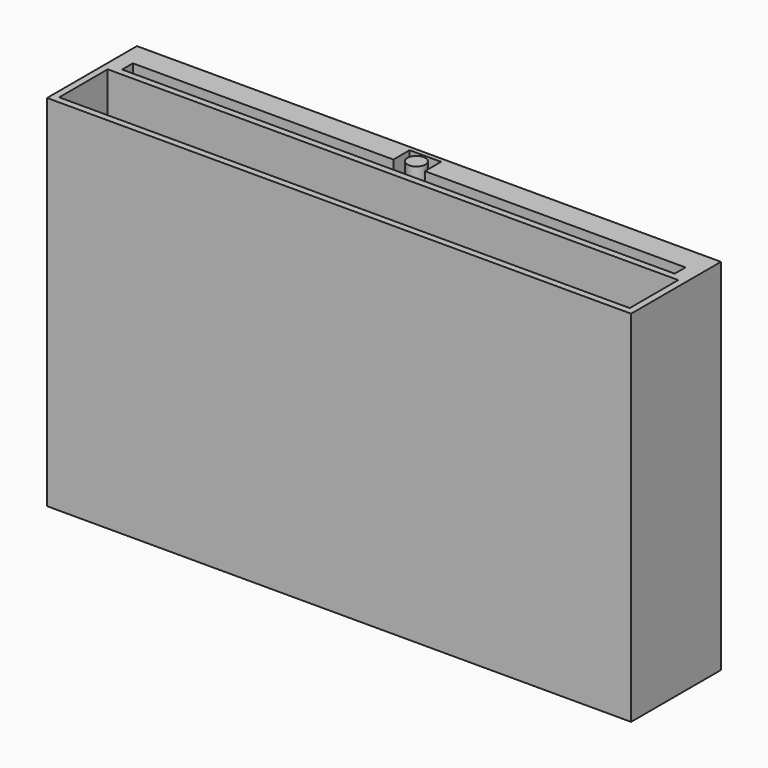
from build123d import *

# Parameters (mm, degrees)
F0_W     = 1300
F0_H     = 800
F1_DEPTH = 250
F2_R     = 20
F2_W     = 1270
F2_H     = 135
F3_DEPTH = 790


with BuildPart() as f1:
    # F0 (on Front) → F1 (new body)
    with BuildSketch(Plane.XZ):
        with Locations((650, -400)):
            Rectangle(F0_W, F0_H)
    extrude(amount=F1_DEPTH)

    # F2 (on face) → F3 (cut)
    with BuildSketch(Plane.XY):
        with BuildLine():
            ThreePointArc((675, -35), (667.67767, -17.32233), (650, -10))
            ThreePointArc((650, -10), (632.32233, -17.32233), (625, -35))
            ThreePointArc((625, -35), (650, -60), (675, -35))
        make_face()
        with Locations((650, -35)):
            Circle(F2_R, mode=Mode.SUBTRACT)
        with BuildLine():
            Line((625, -10), (615, -10))
            Line((615, -10), (615, -55))
            Line((615, -55), (35, -55))
            Line((35, -55), (35, -85))
            Line((35, -85), (1265, -85))
            Line((1265, -85), (1265, -55))
            Line((1265, -55), (685, -55))
            Line((685, -55), (685, -10))
            Line((685, -10), (675, -10))
            Line((675, -10), (675, -35))
            ThreePointArc((675, -35), (650, -60), (625, -35))
            Line((625, -35), (625, -10))
        make_face()
        with BuildLine():
            Line((675, -10), (650, -10))
            ThreePointArc((650, -10), (667.67767, -17.32233), (675, -35))
            Line((675, -35), (675, -10))
        make_face()
        with BuildLine():
            Line((650, -10), (625, -10))
            Line((625, -10), (625, -35))
            ThreePointArc((625, -35), (632.32233, -17.32233), (650, -10))
        make_face()
        with Locations((650, -167.5)):
            Rectangle(F2_W, F2_H)
    extrude(amount=-F3_DEPTH, mode=Mode.SUBTRACT)


solid = f1.part
